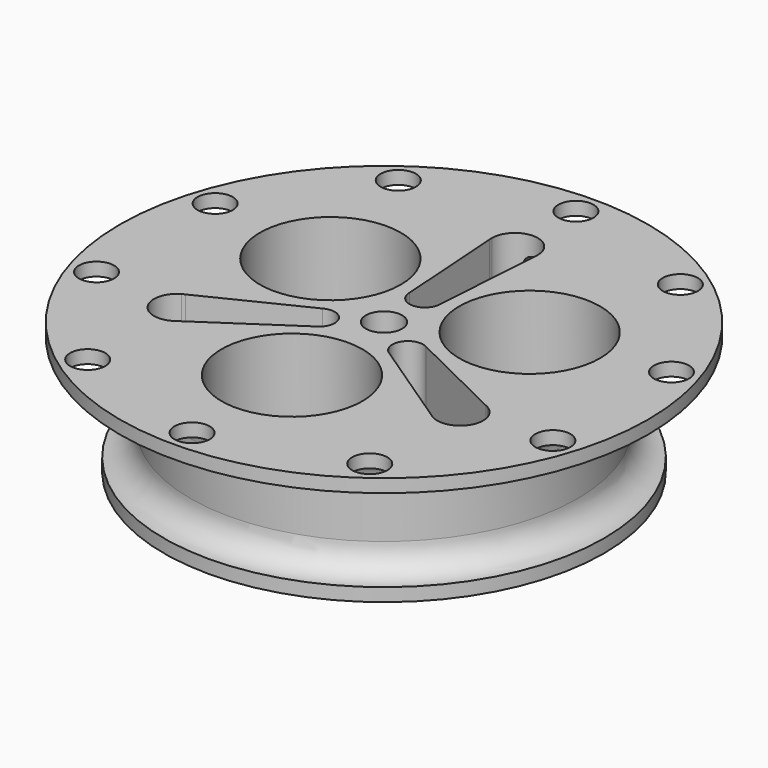
from build123d import *

# Parameters (mm, degrees)
F0_R          = 50
F0_R_2        = 7.5
F0_R_3        = 4.125
F1_DEPTH      = 30
F3_DEPTH      = 12
F4_R          = 2
F5_DEPTH      = 25
F5_DEPTH_BACK = 25
F8_R          = 16
F9_DEPTH      = 44.4
F10_R         = 60
F10_R_2       = 4
F10_R_3       = 50
F11_DEPTH     = 3
F13_START     = -18.6
F12_R         = 2
F13_DEPTH     = 76


with BuildPart() as f1:
    # F0 (on Top) → F1 (new body)
    with BuildSketch(Plane.XY):
        Circle(F0_R)
        with BuildLine():
            ThreePointArc((-29.5606389839, -23.0992315385), (-36.6970313958, -21.1870409548), (-34.7848408122, -14.050648543))
            ThreePointArc((-34.7848408122, -14.050648543), (-34.4741747133, -13.884984547), (-34.1530557988, -13.7406217149))
            Line((-34.1530557988, -13.7406217149), (-11.8039810165, -2.7735797331))
            ThreePointArc((-11.8039810165, -2.7735797331), (-8.3039810165, -2.7735797331), (-6.5539810165, -5.8046686463))
            ThreePointArc((-6.5539810165, -5.8046686463), (-7.0228921033, -7.5546686463), (-8.3039810165, -8.8357575596))
            Line((-8.3039810165, -8.8357575596), (-28.9762553683, -22.7071030812))
            ThreePointArc((-28.9762553683, -22.7071030812), (-29.2618367055, -22.9130188027), (-29.5606389839, -23.0992315385))
        make_face(mode=Mode.SUBTRACT)
        with BuildLine():
            ThreePointArc((34.7848408122, -14.050648543), (36.6970313958, -15.9628391266), (37.3969417263, -18.5749400407))
            ThreePointArc((37.3969417263, -18.5749400407), (34.7848408122, -23.0992315385), (29.5606389839, -23.0992315385))
            ThreePointArc((29.5606389839, -23.0992315385), (29.2618367055, -22.9130188027), (28.9762553683, -22.7071030812))
            Line((28.9762553683, -22.7071030812), (8.3039810165, -8.8357575596))
            ThreePointArc((8.3039810165, -8.8357575596), (7.0228921033, -4.0546686463), (11.8039810165, -2.7735797331))
            Line((11.8039810165, -2.7735797331), (34.1530557988, -13.7406217149))
            ThreePointArc((34.1530557988, -13.7406217149), (34.4741747133, -13.884984547), (34.7848408122, -14.050648543))
        make_face(mode=Mode.SUBTRACT)
        Circle(F0_R_2, mode=Mode.SUBTRACT)
        with BuildLine():
            ThreePointArc((-5.2242018282, 37.1498800814), (0, 42.3740819097), (5.2242018282, 37.1498800814))
            ThreePointArc((5.2242018282, 37.1498800814), (5.2123380078, 36.7980033497), (5.1768004305, 36.4477247961))
            Line((5.1768004305, 36.4477247961), (3.5, 11.6093372926))
            ThreePointArc((3.5, 11.6093372926), (0, 8.1093372926), (-3.5, 11.6093372926))
            Line((-3.5, 11.6093372926), (-5.1768004305, 36.4477247961))
            ThreePointArc((-5.1768004305, 36.4477247961), (-5.2123380078, 36.7980033497), (-5.2242018282, 37.1498800814))
        make_face(mode=Mode.SUBTRACT)
        Circle(F0_R_2)
        Circle(F0_R_3, mode=Mode.SUBTRACT)
    extrude(amount=F1_DEPTH)

    # F0 (on Top) → F3 (join)
    with BuildSketch(Plane.XY):
        Circle(F0_R_2)
        Circle(F0_R_3, mode=Mode.SUBTRACT)
    extrude(amount=-F3_DEPTH)

    # F4 (on Right) → F5 (cut, two sides)
    with BuildSketch(Plane.YZ) as f5_sk:
        with Locations((0, -8)):
            Circle(F4_R)
    extrude(amount=F5_DEPTH, mode=Mode.SUBTRACT)
    extrude(f5_sk.sketch, amount=-F5_DEPTH_BACK, mode=Mode.SUBTRACT)

    # F6 (on Right) → F7 (revolve, cut)
    with BuildSketch(Plane.YZ):
        with BuildLine():
            Line((53.9439544082, 27), (50, 27))
            ThreePointArc((50, 27), (45.7573593129, 25.2426406871), (44, 21))
            Line((44, 21), (44, 9))
            ThreePointArc((44, 9), (45.7573593129, 4.7573593129), (50, 3))
            Line((50, 3), (53.9439544082, 3))
            Line((53.9439544082, 3), (53.9439544082, 27))
        make_face()
    revolve(axis=Axis((0, 0, 17.027027905), (0, 0, 1)), mode=Mode.SUBTRACT)

    # F8 (on face) → F9 (cut)
    with BuildSketch(Plane.XY.offset(30)):
        with Locations((-22.635814867, 13.0687938068)):
            Circle(F8_R)
        with Locations((22.635814867, 13.0687938068)):
            Circle(F8_R)
        with Locations((0, -26.1375876136)):
            Circle(F8_R)
    extrude(amount=-F9_DEPTH, mode=Mode.SUBTRACT)

    # F10 (on face) → F11 (join)
    with BuildSketch(Plane.XY.offset(30)):
        Circle(F10_R)
        with Locations((-32.0342962499, -44.0914261934)):
            Circle(F10_R_2, mode=Mode.SUBTRACT)
        with Locations((-51.8325801381, -16.8414261934)):
            Circle(F10_R_2, mode=Mode.SUBTRACT)
        with Locations((0, -54.5)):
            Circle(F10_R_2, mode=Mode.SUBTRACT)
        with Locations((32.0342962499, -44.0914261934)):
            Circle(F10_R_2, mode=Mode.SUBTRACT)
        with Locations((51.8325801381, -16.8414261934)):
            Circle(F10_R_2, mode=Mode.SUBTRACT)
        with Locations((-51.8325801381, 16.8414261934)):
            Circle(F10_R_2, mode=Mode.SUBTRACT)
        with Locations((-32.0342962499, 44.0914261934)):
            Circle(F10_R_2, mode=Mode.SUBTRACT)
        Circle(F10_R_3, mode=Mode.SUBTRACT)
        with Locations((51.8325801381, 16.8414261934)):
            Circle(F10_R_2, mode=Mode.SUBTRACT)
        with Locations((0, 54.5)):
            Circle(F10_R_2, mode=Mode.SUBTRACT)
        with Locations((32.0342962499, 44.0914261934)):
            Circle(F10_R_2, mode=Mode.SUBTRACT)
    extrude(amount=-F11_DEPTH)

    # F12 (on Front) → F13 (cut)
    with BuildSketch(Plane.XZ.offset(F13_START)):
        with Locations((0, 23.7334519625)):
            Circle(F12_R)
    extrude(amount=-F13_DEPTH, mode=Mode.SUBTRACT)


solid = f1.part
